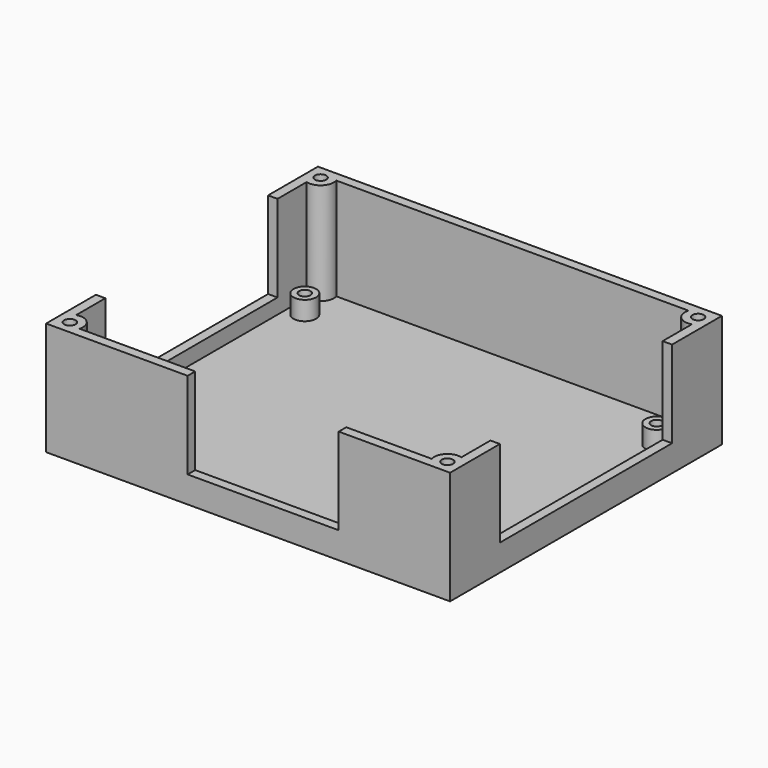
from build123d import *

# Parameters (mm, degrees)
SKETCH_W        = 107
SKETCH_H        = 90
PAD_DEPTH       = 30
SKETCH001_W     = 102
SKETCH001_H     = 85
POCKET_DEPTH    = 27
SKETCH002_R     = 3.5
PAD001_DEPTH    = 27
SKETCH003_R     = 3
PAD002_DEPTH    = 5
SKETCH004_R     = 1.5
POCKET001_DEPTH = 5
SKETCH007_R     = 1.5
POCKET003_DEPTH = 10
SKETCH014_W     = 57
SKETCH014_H     = 23
POCKET010_DEPTH = 107.001
SKETCH015_W     = 40
SKETCH015_H     = 23
POCKET011_DEPTH = 2.5


with BuildPart() as part:
    # Sketch → Pad (new body)
    with BuildSketch(Plane.XY):
        with Locations((53.5, 45)):
            Rectangle(SKETCH_W, SKETCH_H)
    extrude(amount=PAD_DEPTH)

    # Sketch001 (on Face6 of Pad) → Pocket (cut)
    with BuildSketch(Plane.XY.offset(30)):
        with Locations((53.5, 45)):
            Rectangle(SKETCH001_W, SKETCH001_H)
    extrude(amount=-POCKET_DEPTH, mode=Mode.SUBTRACT)

    # Sketch002 (on Face11 of Pocket) → Pad001 (join)
    with BuildSketch(Plane.XY.offset(3)):
        with Locations((3.5, 86.5)):
            Circle(SKETCH002_R)
        with Locations((3.5, 3.5)):
            Circle(SKETCH002_R)
        with Locations((103.5, 86.5)):
            Circle(SKETCH002_R)
        with Locations((103.5, 3.5)):
            Circle(SKETCH002_R)
    extrude(amount=PAD001_DEPTH)

    # Sketch003 (on Face23 of Pad001) → Pad002 (join)
    with BuildSketch(Plane.XY.offset(3)):
        with Locations((6.891, 77.04)):
            Circle(SKETCH003_R)
        with Locations((6.891, 12.96)):
            Circle(SKETCH003_R)
        with Locations((100.109, 77.04)):
            Circle(SKETCH003_R)
        with Locations((100.109, 12.96)):
            Circle(SKETCH003_R)
    extrude(amount=PAD002_DEPTH)

    # Sketch004 (on Face39 of Pad002) → Pocket001 (cut)
    with BuildSketch(Plane.XY.offset(8)):
        with Locations((6.891, 77.04)):
            Circle(SKETCH004_R)
        with Locations((100.109, 77.04)):
            Circle(SKETCH004_R)
        with Locations((100.109, 12.96)):
            Circle(SKETCH004_R)
        with Locations((6.891, 12.96)):
            Circle(SKETCH004_R)
    extrude(amount=-POCKET001_DEPTH, mode=Mode.SUBTRACT)

    # Sketch007 (on Face17 of Pad001) → Pocket003 (cut)
    with BuildSketch(Plane.XY.offset(30)):
        with Locations((3.5, 86.5)):
            Circle(SKETCH007_R)
        with Locations((103.5, 86.5)):
            Circle(SKETCH007_R)
        with Locations((103.5, 3.5)):
            Circle(SKETCH007_R)
        with Locations((3.5, 3.5)):
            Circle(SKETCH007_R)
    extrude(amount=-POCKET003_DEPTH, mode=Mode.SUBTRACT)

    # Sketch014 → Pocket010 (cut, through all)
    with BuildSketch(Plane(origin=(0, 0, 0), x_dir=(0, -1, 0), z_dir=(-1, 0, 0))):
        with Locations((-45, 18.5)):
            Rectangle(SKETCH014_W, SKETCH014_H)
    extrude(amount=-POCKET010_DEPTH, mode=Mode.SUBTRACT)

    # Sketch015 (on Face1 of Pocket010) → Pocket011 (cut)
    with BuildSketch(Plane.XZ):
        with Locations((57.5, 18.5)):
            Rectangle(SKETCH015_W, SKETCH015_H)
    extrude(amount=-POCKET011_DEPTH, mode=Mode.SUBTRACT)


solid = part.part
